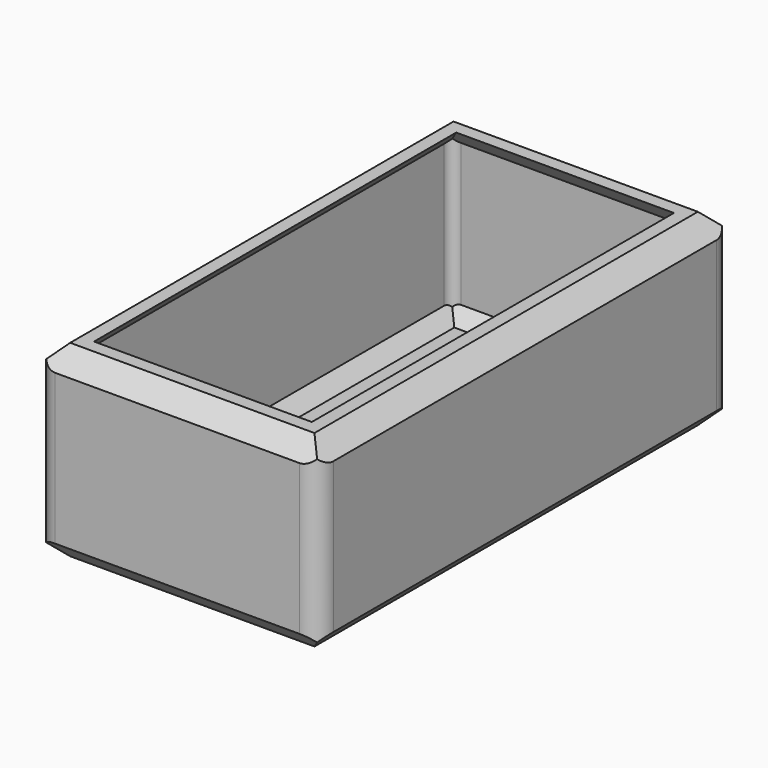
from build123d import *

# Parameters (mm, degrees)
F0_W     = 76.2
F0_H     = 139.7
F1_DEPTH = 50.8
F2_SIZE  = 5.08
F3_R     = 5.08
F4_T     = -2.54


with BuildPart() as f1:
    # F0 (on Top) → F1 (new body)
    with BuildSketch(Plane.XY):
        with Locations((-3.34403, -5.555106)):
            Rectangle(F0_W, F0_H)
    extrude(amount=-F1_DEPTH)

    # F2
    f2_edges = [f1.edges().sort_by_distance(p)[0] for p in [
        (-3.34403, -75.405106, 0),
        (34.75597, -5.555106, 0),
        (-41.44403, -5.555106, 0),
        (-3.34403, 64.294894, 0),
        (34.75597, -5.555106, -50.8),
        (-3.34403, -75.405106, -50.8),
        (-3.34403, 64.294894, -50.8),
        (-41.44403, -5.555106, -50.8),
    ]]
    chamfer(f2_edges, length=F2_SIZE)

    # F3
    f3_edges = [f1.edges().sort_by_distance(p)[0] for p in [
        (34.75597, -75.405106, -25.4),
        (34.75597, 64.294894, -25.4),
        (-41.44403, 64.294894, -25.4),
        (-41.44403, -75.405106, -25.4),
    ]]
    fillet(f3_edges, radius=F3_R)

    # F4
    f4_openings = [f1.faces().sort_by_distance(p)[0] for p in [
        (-3.34403, -5.555106, 0),
    ]]
    offset(amount=F4_T, openings=f4_openings)


solid = f1.part
